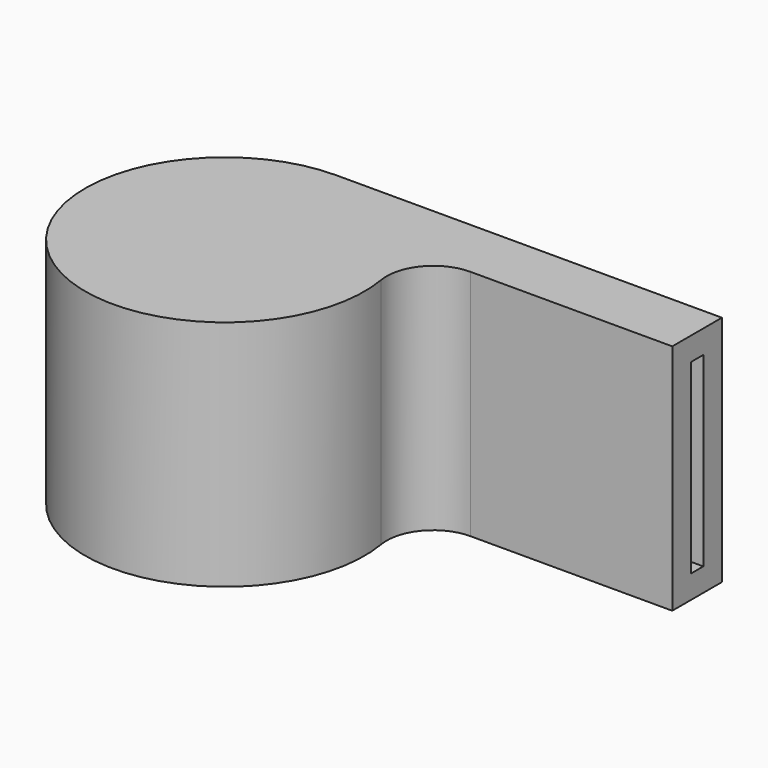
from build123d import *

# Parameters (mm, degrees)
F1_DEPTH = 7.5
F2_T     = -1.5
F3_W     = 4
F3_H     = 12
F4_DEPTH = 1.5


with BuildPart() as f1:
    # F0 (on Top) → F1 (new body, symmetric)
    with BuildSketch(Plane.XY):
        with BuildLine():
            Line((24.83216, 9), (0, 9))
            ThreePointArc((0, 9), (-5.809475, -6.873864), (8.87412, 1.5))
            ThreePointArc((8.87412, 1.5), (9.540872, 3.936492), (11.83216, 5))
            Line((11.83216, 5), (24.83216, 5))
            Line((24.83216, 5), (24.83216, 9))
        make_face()
    extrude(amount=F1_DEPTH, both=True)

    # F2
    f2_openings = [f1.faces().sort_by_distance(p)[0] for p in [
        (24.83216, 7, 0),
    ]]
    offset(amount=F2_T, openings=f2_openings)

    # F3 (on face) → F4 (cut)
    with BuildSketch(Plane(origin=(0, 9, 0), x_dir=(-1, 0, 0), z_dir=(0, 1, 0))):
        with Locations((-3.87412, 0)):
            Rectangle(F3_W, F3_H)
    extrude(amount=-F4_DEPTH, mode=Mode.SUBTRACT)


with BuildPart() as f6:
    # F5 (on Top) → F6 (revolve)
    with BuildSketch(Plane.XY):
        with BuildLine():
            Line((0, -7.5), (0, -2.5))
            ThreePointArc((0, -2.5), (-2.5, -5), (0, -7.5))
        make_face()
    revolve(axis=Axis((0, -5, 0), (0, -1, 0)))


solid = Compound([f1.part, f6.part])
